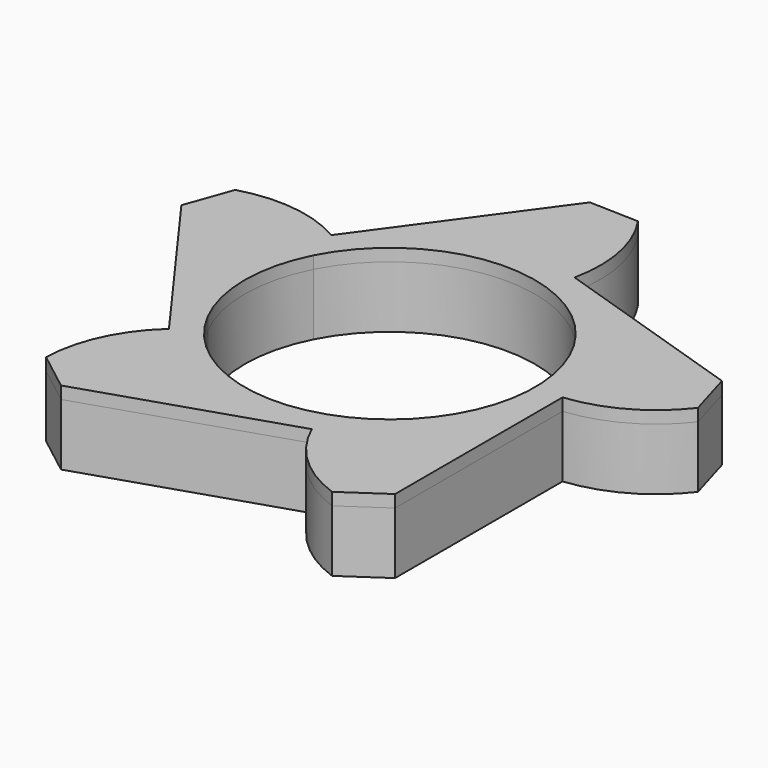
from build123d import *

# Parameters (mm, degrees)
F1_DEPTH = 0.5
F2_DEPTH = 0.6
F3_SCALE = 3


with BuildPart() as f1:
    # F0 (on Top) → F1 (new body)
    with BuildSketch(Plane.XY):
        with BuildLine():
            Line((1.4, -1.6970562748), (1.4, 0))
            ThreePointArc((1.4, 0), (1.8230950904, 0.1333159957), (2.1589223358, 0.4231481393))
            Line((2.1589223358, 0.4231481393), (2.0466202208, 0.8070598935))
            Line((2.0466202208, 0.8070598935), (0.4326237921, 1.3314791228))
            ThreePointArc((0.4326237921, 1.3314791228), (0.4365763189, 1.7750633739), (0.264705896, 2.1840171219))
            Line((0.264705896, 2.1840171219), (-0.1351191415, 2.19584672))
            Line((-0.1351191415, 2.19584672), (-1.1326237921, 0.8228993532))
            ThreePointArc((-1.1326237921, 0.8228993532), (-1.5532760867, 0.9637335016), (-1.9953250951, 0.926648674))
            Line((-1.9953250951, 0.926648674), (-2.1301284428, 0.5500480136))
            Line((-2.1301284428, 0.5500480136), (-1.1326237921, -0.8228993532))
            ThreePointArc((-1.1326237921, -0.8228993532), (-1.3965537344, -1.1794433138), (-1.4978846234, -1.6113167457))
            Line((-1.4978846234, -1.6113167457), (-1.1813726366, -1.8558983522))
            Line((-1.1813726366, -1.8558983522), (0.4326237921, -1.3314791228))
            ThreePointArc((0.4326237921, -1.3314791228), (0.6901584117, -1.6926695573), (1.0695814866, -1.9224971895))
            Line((1.0695814866, -1.9224971895), (1.4, -1.6970562748))
        make_face()
        with BuildLine():
            ThreePointArc((-1.048070018, 0.5348772587), (1.1766666667, 0), (-1.048070018, -0.5348772587))
            ThreePointArc((-1.048070018, -0.5348772587), (-1.1766666667, 0), (-1.048070018, 0.5348772587))
        make_face(mode=Mode.SUBTRACT)
    extrude(amount=F1_DEPTH)


with BuildPart() as f2:
    # F0 (on Top) → F2 (new body)
    with BuildSketch(Plane.XY):
        with BuildLine():
            Line((1.4, -1.6970562748), (1.4, 0))
            ThreePointArc((1.4, 0), (1.8230950904, 0.1333159957), (2.1589223358, 0.4231481393))
            Line((2.1589223358, 0.4231481393), (2.0466202208, 0.8070598935))
            Line((2.0466202208, 0.8070598935), (0.4326237921, 1.3314791228))
            ThreePointArc((0.4326237921, 1.3314791228), (0.4365763189, 1.7750633739), (0.264705896, 2.1840171219))
            Line((0.264705896, 2.1840171219), (-0.1351191415, 2.19584672))
            Line((-0.1351191415, 2.19584672), (-1.1326237921, 0.8228993532))
            ThreePointArc((-1.1326237921, 0.8228993532), (-1.5532760867, 0.9637335016), (-1.9953250951, 0.926648674))
            Line((-1.9953250951, 0.926648674), (-2.1301284428, 0.5500480136))
            Line((-2.1301284428, 0.5500480136), (-1.1326237921, -0.8228993532))
            ThreePointArc((-1.1326237921, -0.8228993532), (-1.3965537344, -1.1794433138), (-1.4978846234, -1.6113167457))
            Line((-1.4978846234, -1.6113167457), (-1.1813726366, -1.8558983522))
            Line((-1.1813726366, -1.8558983522), (0.4326237921, -1.3314791228))
            ThreePointArc((0.4326237921, -1.3314791228), (0.6901584117, -1.6926695573), (1.0695814866, -1.9224971895))
            Line((1.0695814866, -1.9224971895), (1.4, -1.6970562748))
        make_face()
        with BuildLine():
            ThreePointArc((-1.048070018, 0.5348772587), (1.1766666667, 0), (-1.048070018, -0.5348772587))
            ThreePointArc((-1.048070018, -0.5348772587), (-1.1766666667, 0), (-1.048070018, 0.5348772587))
        make_face(mode=Mode.SUBTRACT)
    extrude(amount=F2_DEPTH)


with BuildPart() as f2_1:
    # F3: moved
    add(f2.part.scale(F3_SCALE))


with BuildPart() as f1_1:
    # F3: moved
    add(f1.part.scale(F3_SCALE))


solid = Compound([f2_1.part, f1_1.part])
